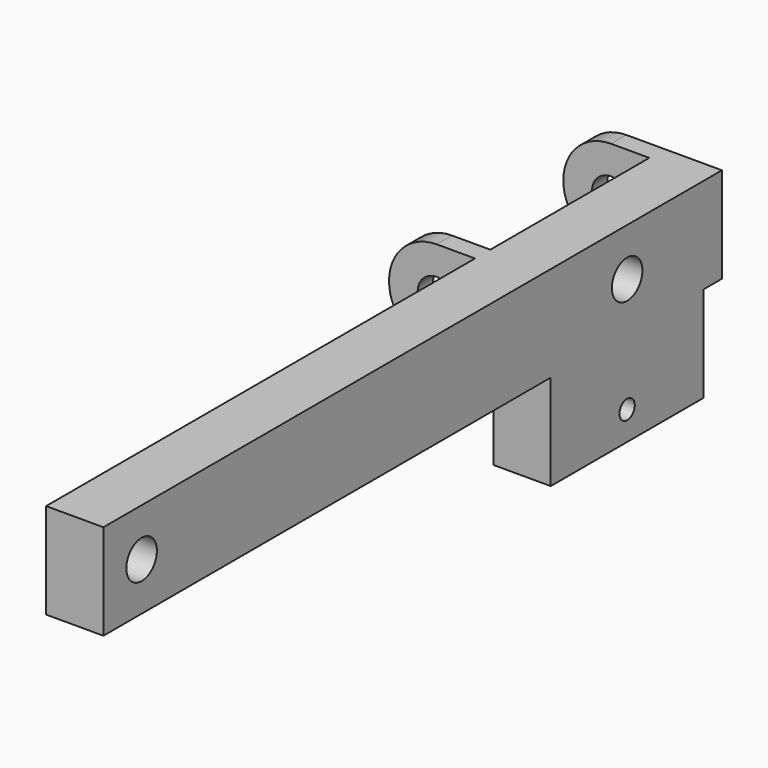
from build123d import *

# Parameters (mm, degrees)
F0_W      = 30
F0_H      = 50
F1_DEPTH  = 400
F3_D      = 20
F4_DEPTH  = 4.6
F5_W      = 10
F5_H      = 50
F6_DEPTH  = 20
F7_W      = 10
F7_H      = 25
F9_W      = 10
F9_H      = 25
F12_D     = 20
F13_W     = 30
F13_H     = 100
F14_DEPTH = 50
F16_D     = 10


with BuildPart() as f1:
    # F0 (on Front) → F1 (new body)
    with BuildSketch(Plane.XZ):
        with Locations((15, 25)):
            Rectangle(F0_W, F0_H)
    extrude(amount=F1_DEPTH)

    # F3 (through all)
    with Locations(Plane(origin=(0, 0, 0), x_dir=(0, 1, 0), z_dir=(-1, 0, 0))):
        with Locations((-375, -25), (-57.4, -25)):
            Hole(F3_D / 2)

    # F0 (on Front) → F4 (join)
    with BuildSketch(Plane.XZ):
        with Locations((15, 25)):
            Rectangle(F0_W, F0_H)
    extrude(amount=-F4_DEPTH)

    # F5 (on Right) → F6 (join)
    with BuildSketch(Plane.YZ):
        with Locations((-0.4, 25)):
            Rectangle(F5_W, F5_H)
        with Locations((-114.4, 25)):
            Rectangle(F5_W, F5_H)
    extrude(amount=-F6_DEPTH)

    # F7 (on face) → F8 (revolve)
    with BuildSketch(Plane(origin=(-20, 0, 0), x_dir=(0, -1, 0), z_dir=(-1, 0, 0))):
        with Locations((0.4, 12.5)):
            Rectangle(F7_W, F7_H)
    revolve(axis=Axis((-20, -0.4124408588, 25), (0, -1, 0)))

    # F9 (on face) → F10 (revolve)
    with BuildSketch(Plane(origin=(-20, 0, 0), x_dir=(0, -1, 0), z_dir=(-1, 0, 0))):
        with Locations((114.4, 12.5)):
            Rectangle(F9_W, F9_H)
    revolve(axis=Axis((-20, -114.0791960061, 25), (0, -1, 0)))

    # F12 (through all)
    with Locations(Plane(origin=(0, 4.6, 0), x_dir=(-1, 0, 0), z_dir=(0, 1, 0))):
        with Locations((20, 25)):
            Hole(F12_D / 2)

    # F13 (on face) → F14 (join)
    with BuildSketch(Plane(origin=(0, 0, 0), x_dir=(1, 0, 0), z_dir=(0, 0, -1))):
        with Locations((15, 57.4)):
            Rectangle(F13_W, F13_H)
    extrude(amount=F14_DEPTH)

    # F16 (through all)
    with Locations(Plane(origin=(0, 0, 0), x_dir=(0, -1, 0), z_dir=(-1, 0, 0))):
        with Locations((57.4, -35)):
            Hole(F16_D / 2)


solid = f1.part
